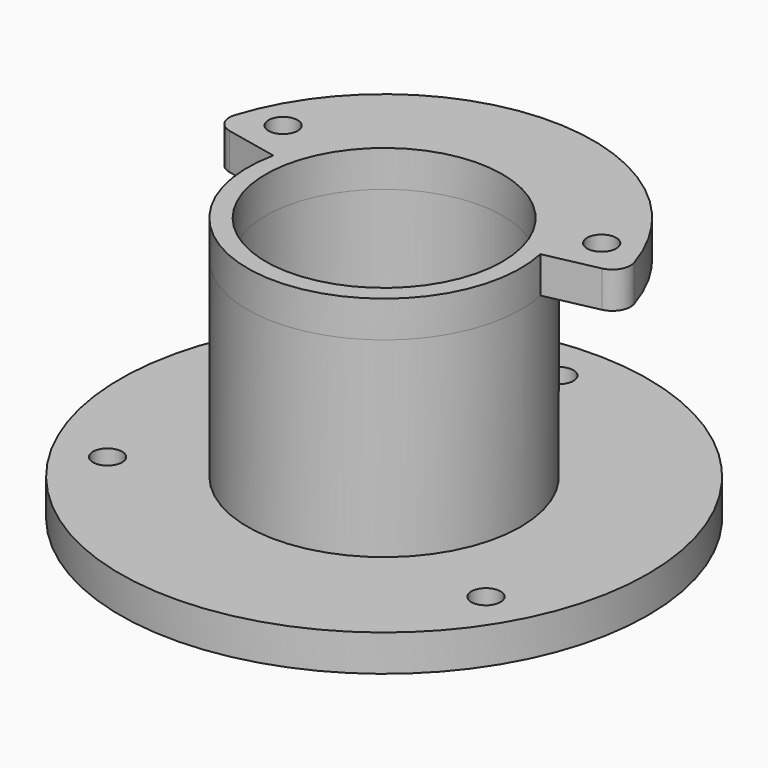
from build123d import *

# Parameters (mm, degrees)
SKETCH_R      = 29
SKETCH_R_2    = 1.6
PAD_DEPTH     = 4
SKETCH001_R   = 15
PAD001_DEPTH  = 21
SKETCH002_R   = 13
POCKET_DEPTH  = 40
SKETCH003_R   = 13
SKETCH003_R_2 = 1.6
PAD002_DEPTH  = 4
FILLET_R      = 2


with BuildPart() as part:
    # Sketch → Pad (new body)
    with BuildSketch(Plane.XY):
        Circle(SKETCH_R)
        with Locations((0, 24)):
            Circle(SKETCH_R_2, mode=Mode.SUBTRACT)
        with Locations((20.78461, -12)):
            Circle(SKETCH_R_2, mode=Mode.SUBTRACT)
        with Locations((-20.78461, -12)):
            Circle(SKETCH_R_2, mode=Mode.SUBTRACT)
    extrude(amount=PAD_DEPTH)

    # Sketch001 (on Face6 of Pad) → Pad001 (join)
    with BuildSketch(Plane.XY.offset(4)):
        Circle(SKETCH001_R)
    extrude(amount=PAD001_DEPTH)

    # Sketch002 (on Face8 of Pad001) → Pocket (cut)
    with BuildSketch(Plane.XY.offset(25)):
        Circle(SKETCH002_R)
    extrude(amount=-POCKET_DEPTH, mode=Mode.SUBTRACT)

    # Sketch003 (on Face9 of Pocket) → Pad002 (join)
    with BuildSketch(Plane.XY.offset(25)):
        with BuildLine():
            ThreePointArc((-14.672214, 3.118675), (0, -15), (14.672214, 3.118675))
            Line((14.672214, 3.118675), (22.497395, 4.781969))
            ThreePointArc((22.497395, 4.781969), (0, 23), (-22.497395, 4.781969))
            Line((-14.672214, 3.118675), (-22.497395, 4.781969))
        make_face()
        Circle(SKETCH003_R, mode=Mode.SUBTRACT)
        with Locations((-17.5, 8)):
            Circle(SKETCH003_R_2, mode=Mode.SUBTRACT)
        with Locations((17.5, 8)):
            Circle(SKETCH003_R_2, mode=Mode.SUBTRACT)
    extrude(amount=PAD002_DEPTH)

    # Fillet
    fillet_edges = [part.edges().sort_by_distance(p)[0] for p in [
        (22.497395, 4.781969, 27),
        (-22.497395, 4.781969, 27),
    ]]
    fillet(fillet_edges, radius=FILLET_R)


solid = part.part
